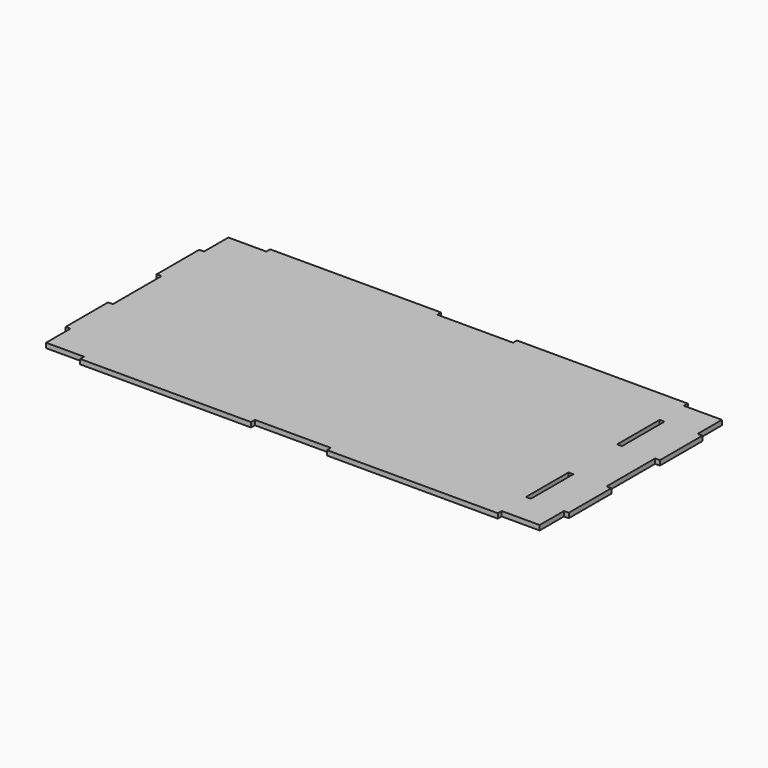
from build123d import *

# Parameters (mm, degrees)
F0_W     = 3.175
F0_H     = 35
F1_DEPTH = 3.175


with BuildPart() as f1:
    # F0 (on Top) → F1 (new body)
    with BuildSketch(Plane.XY):
        Polygon((137.5, 0), (162.5, 0), (187.5, 0), (187.5, -3.175), (300, -3.175), (300, 0), (325, 0), (325, 20), (328.175, 20), (328.175, 55), (325, 55), (325, 95), (328.175, 95), (328.175, 130), (325, 130), (325, 150), (300, 150), (300, 153.175), (187.5, 153.175), (187.5, 150), (162.5, 150), (137.5, 150), (137.5, 153.175), (25, 153.175), (25, 150), (0, 150), (0, 130), (-3.175, 130), (-3.175, 95), (0, 95), (0, 55), (-3.175, 55), (-3.175, 20), (0, 20), (0, 0), (25, 0), (25, -3.175), (137.5, -3.175), align=None)
        with Locations((301.5875, 37.5)):
            Rectangle(F0_W, F0_H, mode=Mode.SUBTRACT)
        with Locations((301.5875, 112.5)):
            Rectangle(F0_W, F0_H, mode=Mode.SUBTRACT)
    extrude(amount=F1_DEPTH)


solid = f1.part
